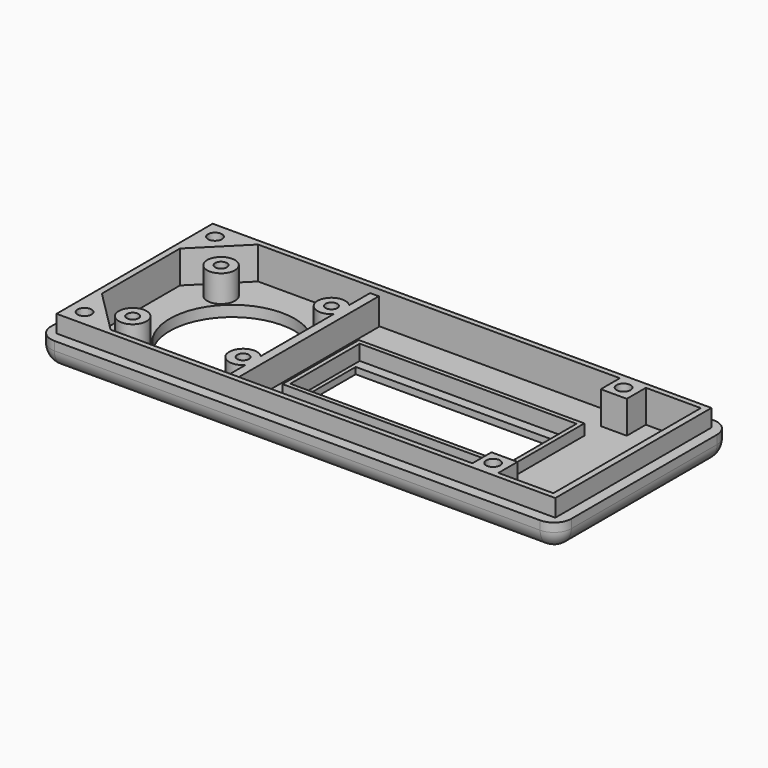
from build123d import *

# Parameters (mm, degrees)
SKETCH_W        = 152.4
SKETCH_H        = 63.5
PAD_DEPTH       = 7.62
SKETCH001_W     = 146.05
SKETCH001_H     = 57.15
PAD001_DEPTH    = 12.7
SKETCH002_W     = 142.367
SKETCH002_H     = 53.975
POCKET_DEPTH    = 9.525
CHAMFER_SIZE    = 12.7
SKETCH003_R     = 18.288
POCKET001_DEPTH = 25.401
SKETCH004_R     = 4.064
PAD002_DEPTH    = 11.0744
SKETCH005_R     = 1.7145
HOLE_DEPTH      = 10.16
HOLE_TIPS_R     = 1.7145
SKETCH006_W     = 2.54
SKETCH006_H     = 53.34
PAD003_DEPTH    = 11.0744
SKETCH008_W     = 66.04
SKETCH008_H     = 27.94
PAD004_DEPTH    = 6.35
SKETCH009_W     = 63.5
SKETCH009_H     = 25.4
POCKET003_DEPTH = 4.445
SKETCH010_W     = 60.452
SKETCH010_H     = 19.6088
POCKET004_DEPTH = 12.701
SKETCH011_W     = 7.62
SKETCH011_H     = 7.62
PAD005_DEPTH    = 12.7
SKETCH012_R     = 2.032
HOLE001_DEPTH   = 11.43
HOLE001_TIPS_R  = 2.032
FILLET_R        = 5.08


with BuildPart() as part:
    # Sketch → Pad (new body)
    with BuildSketch(Plane.XY):
        Rectangle(SKETCH_W, SKETCH_H)
    extrude(amount=PAD_DEPTH)

    # Sketch001 → Pad001 (join)
    with BuildSketch(Plane.XY):
        Rectangle(SKETCH001_W, SKETCH001_H)
    extrude(amount=PAD001_DEPTH)

    # Sketch002 → Pocket (cut)
    with BuildSketch(Plane.XY.offset(12.7)):
        Rectangle(SKETCH002_W, SKETCH002_H)
    extrude(amount=-POCKET_DEPTH, mode=Mode.SUBTRACT)

    # Chamfer
    chamfer_edges = [part.edges().sort_by_distance(p)[0] for p in [
        (-71.1835, 26.9875, 7.9375),
        (-71.1835, -26.9875, 7.9375),
    ]]
    chamfer(chamfer_edges, length=CHAMFER_SIZE)

    # Sketch003 → Pocket001 (cut, through all)
    with BuildSketch(Plane.XY.offset(25.4)):
        with Locations((-44.45, 0)):
            Circle(SKETCH003_R)
    extrude(amount=-POCKET001_DEPTH, mode=Mode.SUBTRACT)

    # Sketch004 → Pad002 (join)
    with BuildSketch(Plane.XY):
        with Locations((-60.6552, -16.1671)):
            Circle(SKETCH004_R)
        with Locations((-28.321, -16.1671)):
            Circle(SKETCH004_R)
        with Locations((-28.321, 16.1671)):
            Circle(SKETCH004_R)
        with Locations((-60.6552, 16.1671)):
            Circle(SKETCH004_R)
    extrude(amount=PAD002_DEPTH)

    # Sketch005 → Hole (cut)
    with BuildSketch(Plane.XY.offset(12.7)):
        with Locations((-60.6552, -16.1671)):
            Circle(SKETCH005_R)
        with Locations((-28.321, -16.1671)):
            Circle(SKETCH005_R)
        with Locations((-28.321, 16.1671)):
            Circle(SKETCH005_R)
        with Locations((-60.6552, 16.1671)):
            Circle(SKETCH005_R)
    extrude(amount=-HOLE_DEPTH, mode=Mode.SUBTRACT)

    # Hole tips → Hole tip 1 section 0
    with BuildSketch(Plane.XY.offset(2.54), mode=Mode.PRIVATE) as hole_tip_1_s0:
        with Locations((-60.6552, -16.1671)):
            Circle(HOLE_TIPS_R)
    loft([hole_tip_1_s0.sketch, Vertex(-60.6552, -16.1671, 1.509824)], mode=Mode.SUBTRACT)

    # Hole tips → Hole tip 2 section 0
    with BuildSketch(Plane.XY.offset(2.54), mode=Mode.PRIVATE) as hole_tip_2_s0:
        with Locations((-28.321, -16.1671)):
            Circle(HOLE_TIPS_R)
    loft([hole_tip_2_s0.sketch, Vertex(-28.321, -16.1671, 1.509824)], mode=Mode.SUBTRACT)

    # Hole tips → Hole tip 3 section 0
    with BuildSketch(Plane.XY.offset(2.54), mode=Mode.PRIVATE) as hole_tip_3_s0:
        with Locations((-28.321, 16.1671)):
            Circle(HOLE_TIPS_R)
    loft([hole_tip_3_s0.sketch, Vertex(-28.321, 16.1671, 1.509824)], mode=Mode.SUBTRACT)

    # Hole tips → Hole tip 4 section 0
    with BuildSketch(Plane.XY.offset(2.54), mode=Mode.PRIVATE) as hole_tip_4_s0:
        with Locations((-60.6552, 16.1671)):
            Circle(HOLE_TIPS_R)
    loft([hole_tip_4_s0.sketch, Vertex(-60.6552, 16.1671, 1.509824)], mode=Mode.SUBTRACT)

    # Sketch006 → Pad003 (join)
    with BuildSketch(Plane.XY):
        with Locations((-24.13, 0)):
            Rectangle(SKETCH006_W, SKETCH006_H)
    extrude(amount=PAD003_DEPTH)

    # Sketch008 → Pad004 (join)
    with BuildSketch(Plane.XY):
        with Locations((14.478, 0)):
            Rectangle(SKETCH008_W, SKETCH008_H)
    extrude(amount=PAD004_DEPTH)

    # Sketch009 → Pocket003 (cut)
    with BuildSketch(Plane.XY.offset(6.35)):
        with Locations((14.478, 0)):
            Rectangle(SKETCH009_W, SKETCH009_H)
    extrude(amount=-POCKET003_DEPTH, mode=Mode.SUBTRACT)

    # Sketch010 → Pocket004 (cut, through all)
    with BuildSketch(Plane.XY.offset(12.7)):
        with Locations((14.097, 0)):
            Rectangle(SKETCH010_W, SKETCH010_H)
    extrude(amount=-POCKET004_DEPTH, mode=Mode.SUBTRACT)

    # Sketch011 → Pad005 (join)
    with BuildSketch(Plane.XY):
        with Locations((51.2826, 23.8125)):
            Rectangle(SKETCH011_W, SKETCH011_H)
        with Locations((51.2826, -23.8125)):
            Rectangle(SKETCH011_W, SKETCH011_H)
    extrude(amount=PAD005_DEPTH)

    # Sketch012 → Hole001 (cut)
    with BuildSketch(Plane.XY.offset(12.7)):
        with Locations((-68.58, 23.876)):
            Circle(SKETCH012_R)
        with Locations((-68.58, -23.876)):
            Circle(SKETCH012_R)
        with Locations((51.054, 23.876)):
            Circle(SKETCH012_R)
        with Locations((51.054, -23.876)):
            Circle(SKETCH012_R)
    extrude(amount=-HOLE001_DEPTH, mode=Mode.SUBTRACT)

    # Hole001 tips → Hole001 tip 1 section 0
    with BuildSketch(Plane.XY.offset(1.27), mode=Mode.PRIVATE) as hole001_tip_1_s0:
        with Locations((-68.58, 23.876)):
            Circle(HOLE001_TIPS_R)
    loft([hole001_tip_1_s0.sketch, Vertex(-68.58, 23.876, 0.049051)], mode=Mode.SUBTRACT)

    # Hole001 tips → Hole001 tip 2 section 0
    with BuildSketch(Plane.XY.offset(1.27), mode=Mode.PRIVATE) as hole001_tip_2_s0:
        with Locations((-68.58, -23.876)):
            Circle(HOLE001_TIPS_R)
    loft([hole001_tip_2_s0.sketch, Vertex(-68.58, -23.876, 0.049051)], mode=Mode.SUBTRACT)

    # Hole001 tips → Hole001 tip 3 section 0
    with BuildSketch(Plane.XY.offset(1.27), mode=Mode.PRIVATE) as hole001_tip_3_s0:
        with Locations((51.054, 23.876)):
            Circle(HOLE001_TIPS_R)
    loft([hole001_tip_3_s0.sketch, Vertex(51.054, 23.876, 0.049051)], mode=Mode.SUBTRACT)

    # Hole001 tips → Hole001 tip 4 section 0
    with BuildSketch(Plane.XY.offset(1.27), mode=Mode.PRIVATE) as hole001_tip_4_s0:
        with Locations((51.054, -23.876)):
            Circle(HOLE001_TIPS_R)
    loft([hole001_tip_4_s0.sketch, Vertex(51.054, -23.876, 0.049051)], mode=Mode.SUBTRACT)

    # Fillet
    fillet_edges = [part.edges().sort_by_distance(p)[0] for p in [
        (-76.2, 31.75, 3.81),
        (0, 31.75, 0),
        (76.2, 31.75, 3.81),
        (-76.2, 0, 0),
        (-76.2, -31.75, 3.81),
        (0, -31.75, 0),
        (76.2, -31.75, 3.81),
        (76.2, 0, 0),
    ]]
    fillet(fillet_edges, radius=FILLET_R)


solid = part.part
